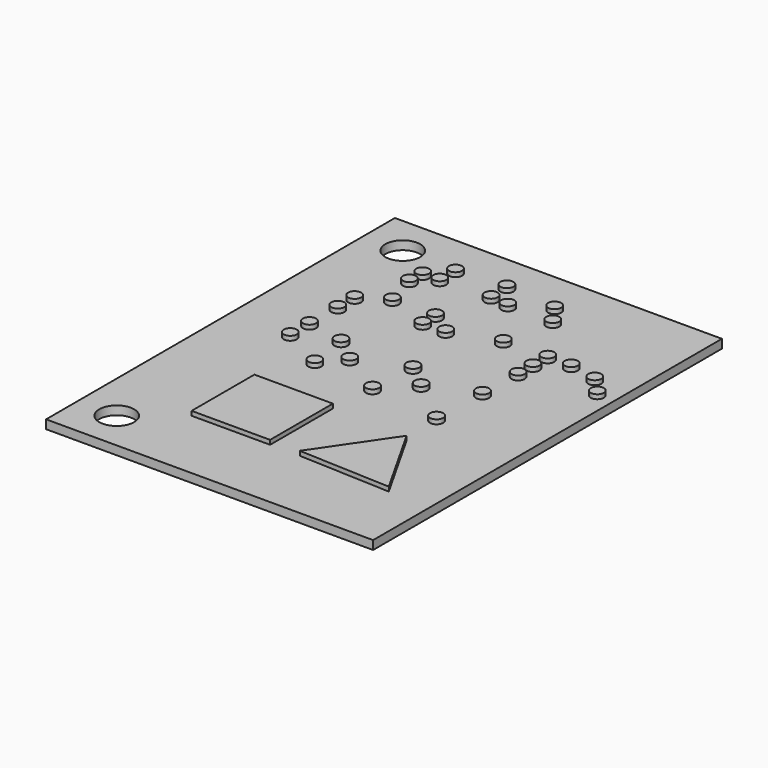
from build123d import *

# Parameters (mm, degrees)
F0_W     = 75
F0_H     = 100
F0_R     = 4
F1_DEPTH = 2
F2_R     = 1.5
F2_W     = 18
F2_H     = 18
F3_DEPTH = 1


with BuildPart() as f1:
    # F0 (on Top) → F1 (new body)
    with BuildSketch(Plane.XY):
        Rectangle(F0_W, F0_H)
        with Locations((-28.5, -41)):
            Circle(F0_R, mode=Mode.SUBTRACT)
        with Locations((-28.5, 41)):
            Circle(F0_R, mode=Mode.SUBTRACT)
    extrude(amount=F1_DEPTH)

    # F2 (on face) → F3 (join)
    with BuildSketch(Plane.XY.offset(2)):
        with Locations((-19.536053, 35.5)):
            Circle(F2_R)
        with Locations((-15.603451, 35.5)):
            Circle(F2_R)
        with Locations((-15.603451, 40)):
            Circle(F2_R)
        with Locations((-4.571911, 40.951985)):
            Circle(F2_R)
        with Locations((-4.21, 35.965101)):
            Circle(F2_R)
        with Locations((0, 35.5)):
            Circle(F2_R)
        with Locations((-19.647178, 31.842151)):
            Circle(F2_R)
        with Locations((7.212908, 39.913771)):
            Circle(F2_R)
        with Locations((10.297806, 35.5)):
            Circle(F2_R)
        with Locations((30.034842, 22.869634)):
            Circle(F2_R)
        with Locations((33.795666, 18.915948)):
            Circle(F2_R)
        with Locations((23.573941, 24.219673)):
            Circle(F2_R)
        with Locations((18.17378, 24.219673)):
            Circle(F2_R)
        with Locations((18.17378, 19.976692)):
            Circle(F2_R)
        with Locations((18.17378, 15.733711)):
            Circle(F2_R)
        with Locations((8.144919, 24.026811)):
            Circle(F2_R)
        with Locations((-2.288573, 20.540619)):
            Circle(F2_R)
        with Locations((-7.4712, 20.417223)):
            Circle(F2_R)
        with Locations((-7.594596, 24.242494)):
            Circle(F2_R)
        with Locations((-17.466265, 24.242494)):
            Circle(F2_R)
        with Locations((-23.265871, 20.664013)):
            Circle(F2_R)
        with Locations((-23.265871, 15.851575)):
            Circle(F2_R)
        with Locations((-23.30542, 7.768475)):
            Circle(F2_R)
        with Locations((-23.30542, 2.26867)):
            Circle(F2_R)
        with Locations((-14.643229, 5.981038)):
            Circle(F2_R)
        with Locations((-9.005929, 1.4437)):
            Circle(F2_R)
        with Locations((-13.268277, -3.231134)):
            Circle(F2_R)
        with Locations((1.856185, 5.981038)):
            Circle(F2_R)
        with Locations((7.355989, 1.4437)):
            Circle(F2_R)
        with Locations((1.168709, -4.743581)):
            Circle(F2_R)
        with Locations((17.393135, -6.668512)):
            Circle(F2_R)
        with Locations((17.805619, 5.981038)):
            Circle(F2_R)
        Polygon((18.085241, -16.139069), (6.80601, -32.65509), (27.931091, -33.547665), align=None)
        with Locations((-9, -23.65509)):
            Rectangle(F2_W, F2_H)
    extrude(amount=F3_DEPTH)


solid = f1.part
